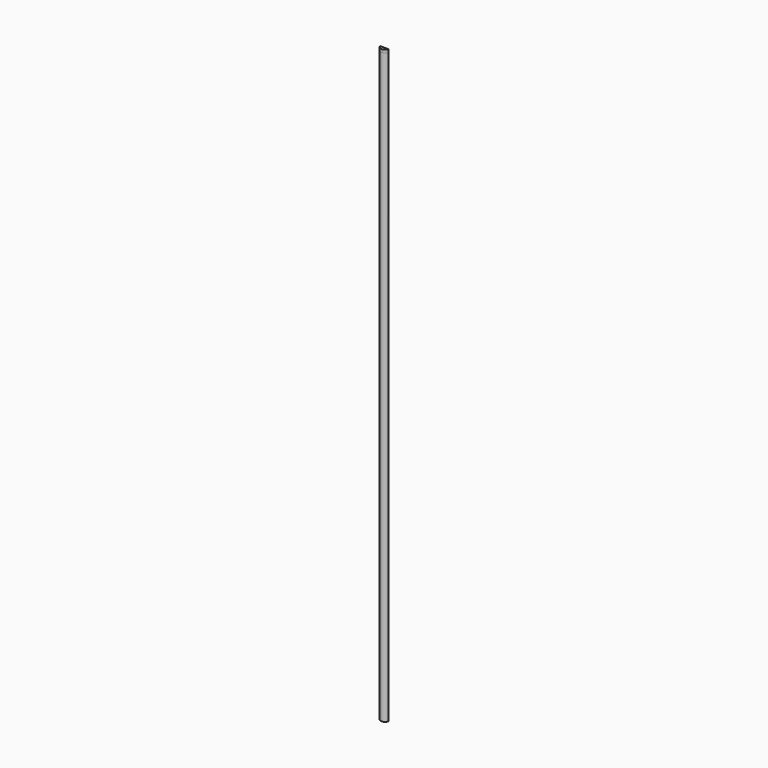
from build123d import *

# Parameters (mm, degrees)
F2_DEPTH = 25.4
F3_DEPTH = 5080


with BuildPart() as f2:
    # F0 (on Top) → F2 (new body)
    with BuildSketch(Plane.XY):
        with BuildLine():
            Line((32.0999036126, 0), (0, 0))
            Line((0, 0), (0, -27.3951284102))
            ThreePointArc((0, -27.3951284102), (20.3794132076, -18.7705571692), (32.0999036126, 0))
        make_face()
        with BuildLine():
            Line((0, -27.3951284102), (0, 0))
            Line((0, 0), (-39.0069372318, 0))
            ThreePointArc((-39.0069372318, 0), (-24.5538537296, -20.8886257755), (0, -27.3951284102))
        make_face()
    extrude(amount=F2_DEPTH)


with BuildPart() as f3:
    # F3 (new): a face of the model
    f3_faces = [f2.part.faces().sort_by_distance(p)[0] for p in [
        (-3.4535168096, -11.4786175033, 0),
    ]]
    extrude(f3_faces, amount=F3_DEPTH)


solid = Compound([f2.part, f3.part])
